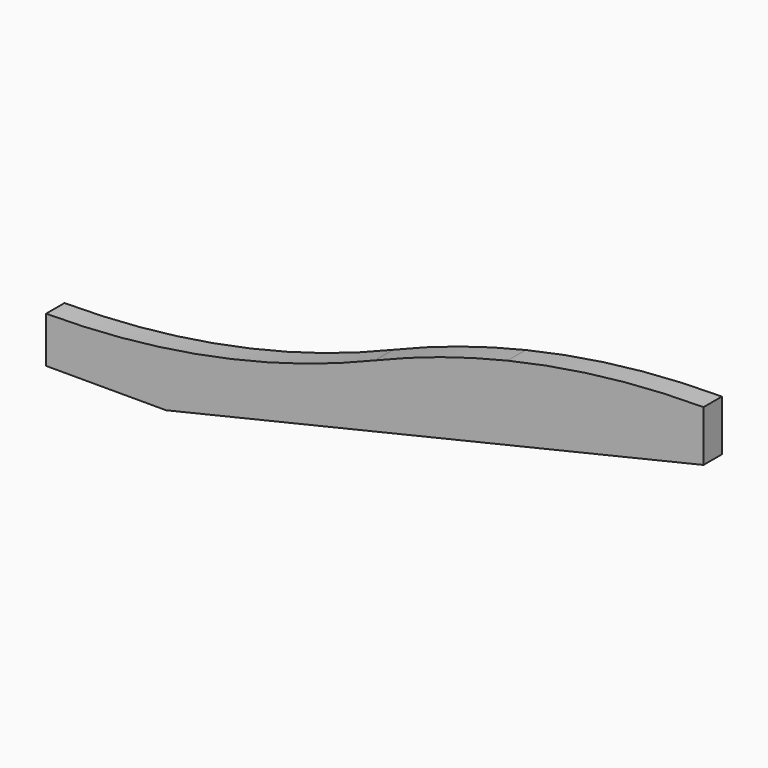
from build123d import *

# Parameters (mm, degrees)
F1_DEPTH = 44.45


with BuildPart() as f1:
    # F0 (on Front) → F1 (new body)
    with BuildSketch(Plane.XZ):
        with BuildLine():
            ThreePointArc((635, 215.9), (323.787739, 120.961304), (0, 88.9))
            Line((0, 88.9), (609.21461, 88.9))
            Line((609.21461, 88.9), (1270, 244.574017))
            Line((1270, 244.574017), (1270, 342.9))
            ThreePointArc((1270, 342.9), (1079.429507, 331.864599), (891.406587, 298.90592))
            ThreePointArc((891.406587, 298.90592), (761.506738, 262.643646), (635, 215.9))
        make_face()
        Polygon((0, 88.9), (0, 0), (231.863126, 0), (609.21461, 88.9), align=None)
    extrude(amount=-F1_DEPTH)


solid = f1.part
